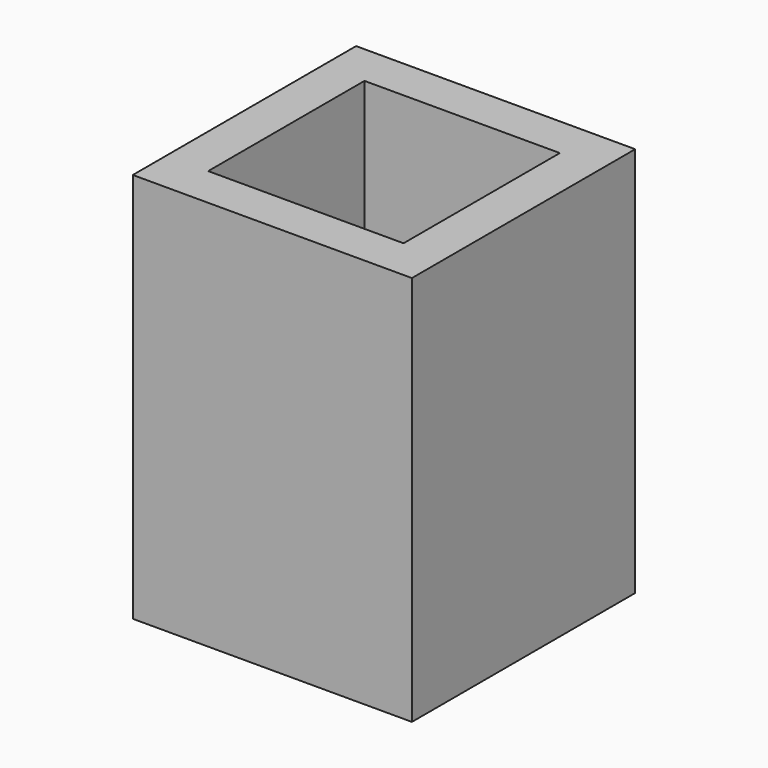
from build123d import *

# Parameters (mm, degrees)
F0_W     = 20
F0_H     = 20
F0_W_2   = 14
F0_H_2   = 14
F1_DEPTH = 28
F0_R     = 2.5
F2_DEPTH = 3


with BuildPart() as f1:
    # F0 (on Top) → F1 (new body)
    with BuildSketch(Plane.XY):
        Rectangle(F0_W, F0_H)
        Rectangle(F0_W_2, F0_H_2, mode=Mode.SUBTRACT)
    extrude(amount=F1_DEPTH)

    # F0 (on Top) → F2 (join)
    with BuildSketch(Plane.XY):
        Rectangle(F0_W_2, F0_H_2)
        Circle(F0_R, mode=Mode.SUBTRACT)
    extrude(amount=F2_DEPTH)


solid = f1.part
